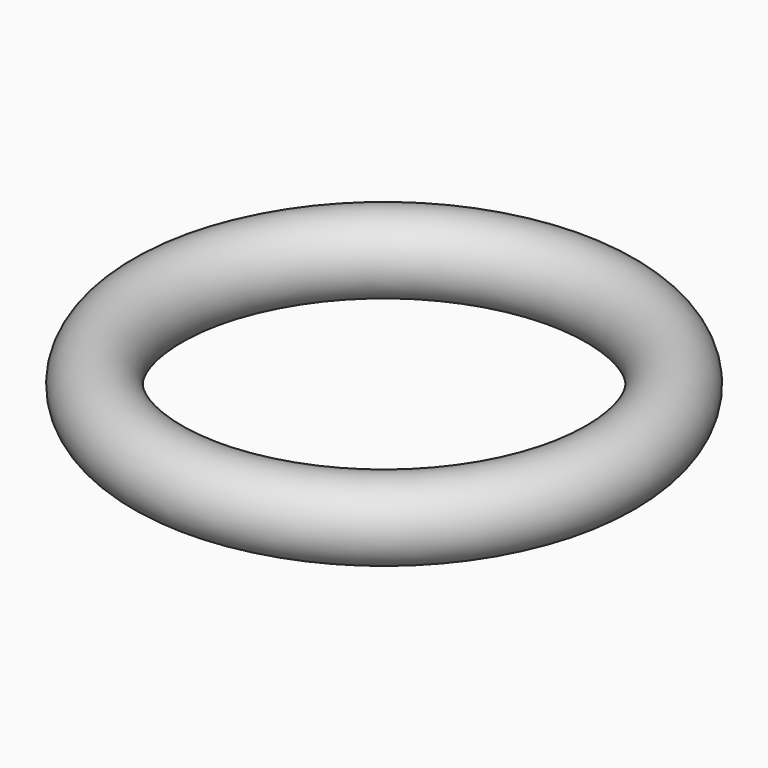
from build123d import *


with BuildPart() as f1:
    # F0 (on Front) → F1 (revolve)
    with BuildSketch(Plane.XZ):
        with BuildLine():
            ThreePointArc((20, 0), (24, -4), (28, 0))
            ThreePointArc((28, 0), (24, 4), (20, 0))
        make_face()
    revolve(axis=Axis((0, 0, -1.260672), (0, 0, -1)))


solid = f1.part
